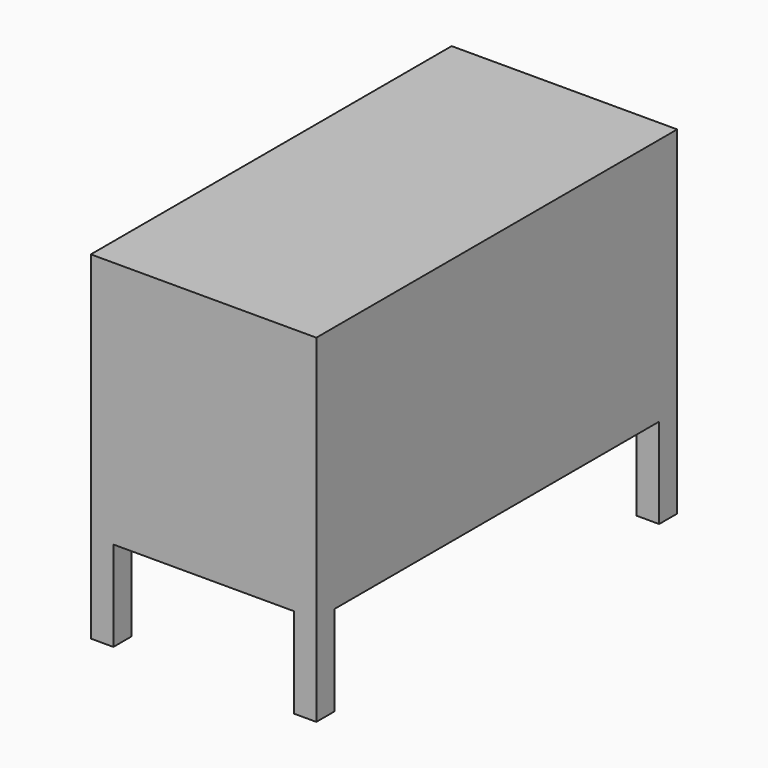
from build123d import *

# Parameters (mm, degrees)
F0_W     = 1000
F0_H     = 2000
F1_DEPTH = 1500
F2_W     = 800
F2_H     = 400
F3_DEPTH = 2000
F4_W     = 1800
F4_H     = 400
F5_DEPTH = 1000


with BuildPart() as f1:
    # F0 (on Top) → F1 (new body)
    with BuildSketch(Plane.XY):
        with Locations((-500, 1000)):
            Rectangle(F0_W, F0_H)
    extrude(amount=F1_DEPTH)

    # F2 (on face) → F3 (cut)
    with BuildSketch(Plane.XZ):
        with Locations((-500, 200)):
            Rectangle(F2_W, F2_H)
    extrude(amount=-F3_DEPTH, mode=Mode.SUBTRACT)

    # F4 (on face) → F5 (cut)
    with BuildSketch(Plane.YZ):
        with Locations((1000, 200)):
            Rectangle(F4_W, F4_H)
    extrude(amount=-F5_DEPTH, mode=Mode.SUBTRACT)


solid = f1.part
